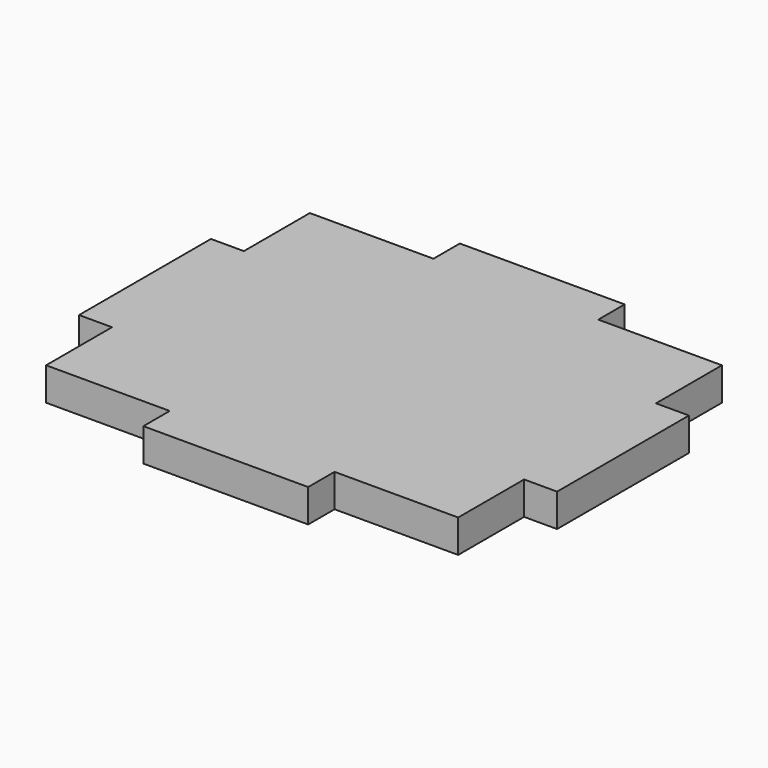
from build123d import *

# Parameters (mm, degrees)
F1_DEPTH = 4


with BuildPart() as f1:
    # F0 (on Top) → F1 (new body)
    with BuildSketch(Plane.XY):
        Polygon((-10, 20), (-25, 20), (-25, 10), (-29, 10), (-29, -10), (-25, -10), (-25, -20), (-10, -20), (-10, -24), (10, -24), (10, -20), (25, -20), (25, -10), (29, -10), (29, 10), (25, 10), (25, 20), (10, 20), (10, 24), (-10, 24), align=None)
    extrude(amount=F1_DEPTH)


solid = f1.part
